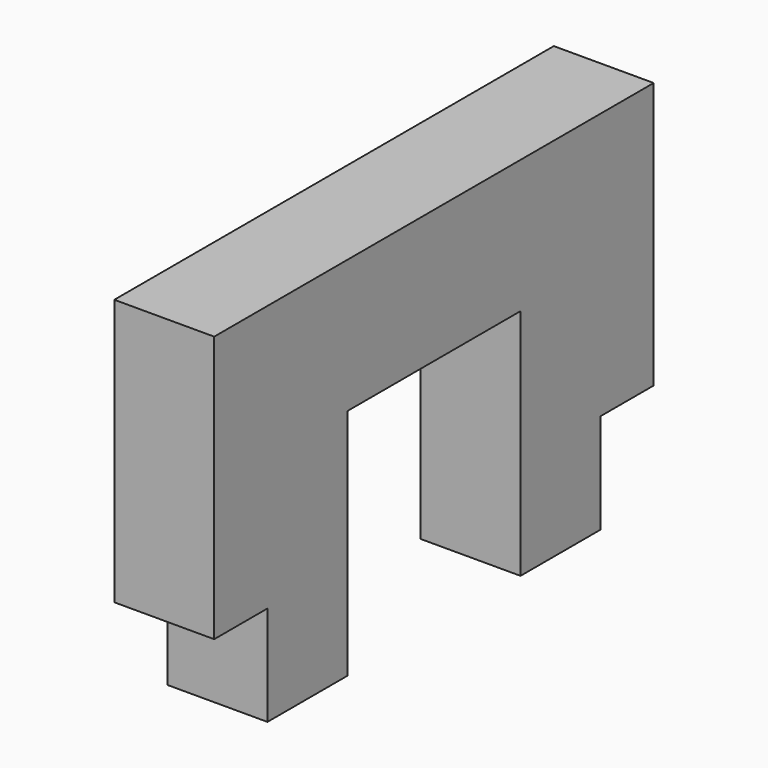
from build123d import *

# Parameters (mm, degrees)
F0_W     = 6.5
F0_H     = 4
F0_W_2   = 3
F0_H_2   = 3
F1_DEPTH = 3


with BuildPart() as f1:
    # F0 (on Right) → F1 (new body)
    with BuildSketch(Plane.YZ):
        Rectangle(F0_W, F0_H)
        Polygon((3.25, 2), (3.25, -2), (3.25, -6), (6.25, -6), (8.25, -6), (8.25, 2), align=None)
        Polygon((-3.25, -6), (-3.25, -2), (-3.25, 2), (-8.25, 2), (-8.25, -6), (-6.25, -6), align=None)
        with Locations((4.75, -7.5)):
            Rectangle(F0_W_2, F0_H_2)
        with Locations((-4.75, -7.5)):
            Rectangle(F0_W_2, F0_H_2)
    extrude(amount=F1_DEPTH)


solid = f1.part
